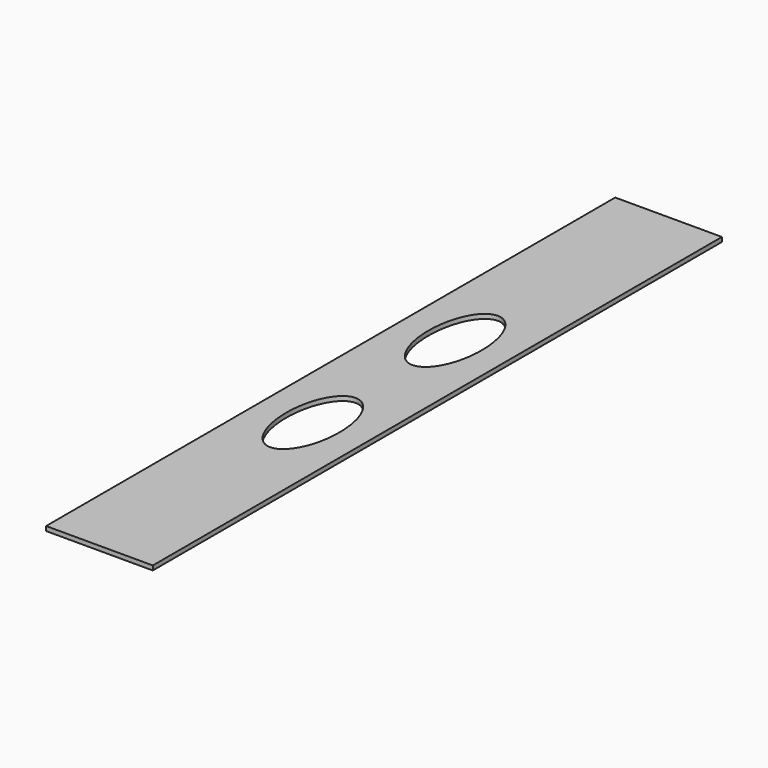
from build123d import *

# Parameters (mm, degrees)
F1_DEPTH = 25


with BuildPart() as f1:
    # F0 (on Top) → F1 (new body)
    with BuildSketch(Plane.XY):
        with BuildLine():
            Line((0, 3000), (0, 0))
            Line((0, 0), (600, 0))
            Line((600, 0), (600, 186.54424))
            ThreePointArc((600, 186.54424), (450, 336.54424), (600, 486.54424))
            Line((600, 486.54424), (600, 583.93681))
            ThreePointArc((600, 583.93681), (450, 733.93681), (600, 883.93681))
            Line((600, 883.93681), (600, 4000))
            Line((600, 4000), (0, 4000))
            Line((0, 4000), (0, 3100))
            Line((0, 3100), (150, 3100))
            ThreePointArc((150, 3100), (250, 3000), (150, 2900))
            ThreePointArc((150, 2900), (79.289322, 2929.289322), (50, 3000))
            Line((50, 3000), (0, 3000))
        make_face()
        with BuildLine():
            add(Edge.make_bspline(
                [(300, 1800), (40.192379, 1800), (170.096189, 1350), (300, 900), (429.903811, 1350), (559.807621, 1800), (300, 1800)],
                knots=[0, 0, 0, 2.094395, 2.094395, 4.18879, 4.18879, 6.283185, 6.283185, 6.283185], degree=2, weights=[1, 0.5, 1, 0.5, 1, 0.5, 1]))
        make_face(mode=Mode.SUBTRACT)
        with BuildLine():
            add(Edge.make_bspline(
                [(300, 2800), (40.192379, 2800), (170.096189, 2350), (300, 1900), (429.903811, 2350), (559.807621, 2800), (300, 2800)],
                knots=[0, 0, 0, 2.094395, 2.094395, 4.18879, 4.18879, 6.283185, 6.283185, 6.283185], degree=2, weights=[1, 0.5, 1, 0.5, 1, 0.5, 1]))
        make_face(mode=Mode.SUBTRACT)
        with BuildLine():
            Line((0, 3100), (0, 3000))
            Line((0, 3000), (50, 3000))
            ThreePointArc((50, 3000), (79.289322, 2929.289322), (150, 2900))
            ThreePointArc((150, 2900), (250, 3000), (150, 3100))
            Line((150, 3100), (0, 3100))
        make_face()
        with BuildLine():
            ThreePointArc((600, 883.93681), (450, 733.93681), (600, 583.93681))
            Line((600, 583.93681), (600, 883.93681))
        make_face()
        with BuildLine():
            ThreePointArc((600, 486.54424), (450, 336.54424), (600, 186.54424))
            Line((600, 186.54424), (600, 486.54424))
        make_face()
    extrude(amount=F1_DEPTH)


solid = f1.part
